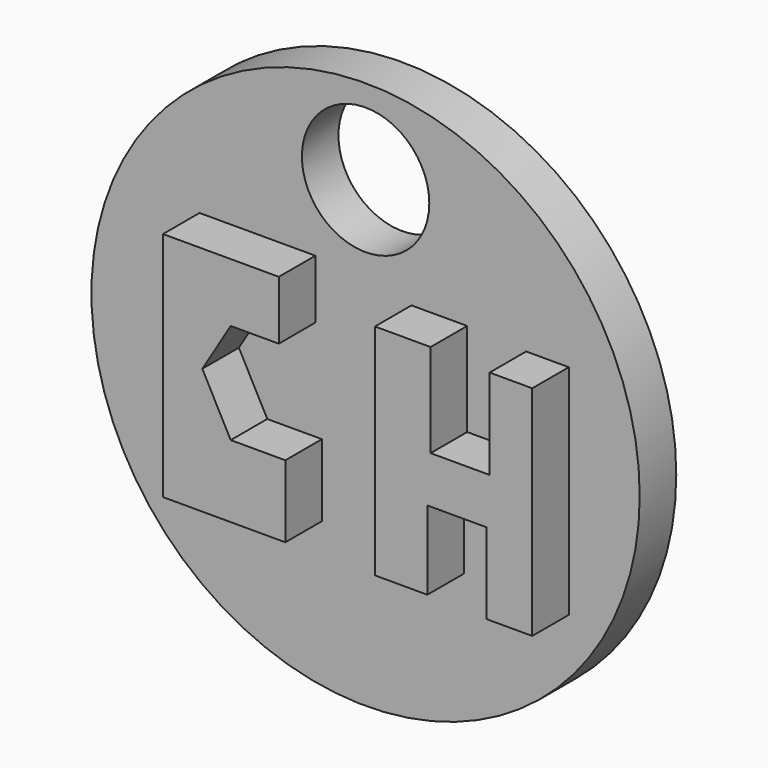
from build123d import *

# Parameters (mm, degrees)
F1_DEPTH = 12.7
F0_R     = 38.1
F2_DEPTH = 6.35
F3_R     = 8.852647
F4_DEPTH = 25.4


with BuildPart() as f1:
    # F0 (on Front) → F1 (new body)
    with BuildSketch(Plane.XZ):
        Polygon((-6.983795, 6.528331), (-6.983795, 14.710986), (-23.076888, 14.710986), (-23.076888, -17.4752), (-6.072866, -17.4752), (-6.072866, -7.43926), (-13.663946, -7.43926), (-17.61131, 0), (-13.663946, 6.528331), align=None)
        Polygon((14.119415, 12.98075), (6.376504, 12.98075), (6.376504, -17.473115), (13.663941, -17.473115), (13.663941, -6.541958), (21.862306, -6.541958), (21.862306, -17.776759), (28.238813, -17.776759), (28.238813, 12.525285), (22.317781, 12.525285), (22.317781, 0), (14.119415, 0), align=None)
    extrude(amount=F1_DEPTH)


with BuildPart() as f2:
    # F0 (on Front) → F2 (new body)
    with BuildSketch(Plane.XZ):
        Circle(F0_R)
        Polygon((-23.076888, 14.710986), (-6.983795, 14.710986), (-6.983795, 6.528331), (-13.663946, 6.528331), (-17.61131, 0), (-13.663946, -7.43926), (-6.072866, -7.43926), (-6.072866, -17.4752), (-23.076888, -17.4752), align=None, mode=Mode.SUBTRACT)
        Polygon((6.376504, -17.473115), (6.376504, 12.98075), (14.119415, 12.98075), (14.119415, 0), (22.317781, 0), (22.317781, 12.525285), (28.238813, 12.525285), (28.238813, -17.776759), (21.862306, -17.776759), (21.862306, -6.541958), (13.663941, -6.541958), (13.663941, -17.473115), align=None, mode=Mode.SUBTRACT)
    extrude(amount=F2_DEPTH)

    # F3 (on Front) → F4 (cut)
    with BuildSketch(Plane.XZ):
        with Locations((0, 26.265142)):
            Circle(F3_R)
    extrude(amount=F4_DEPTH, mode=Mode.SUBTRACT)


solid = Compound([f1.part, f2.part])
